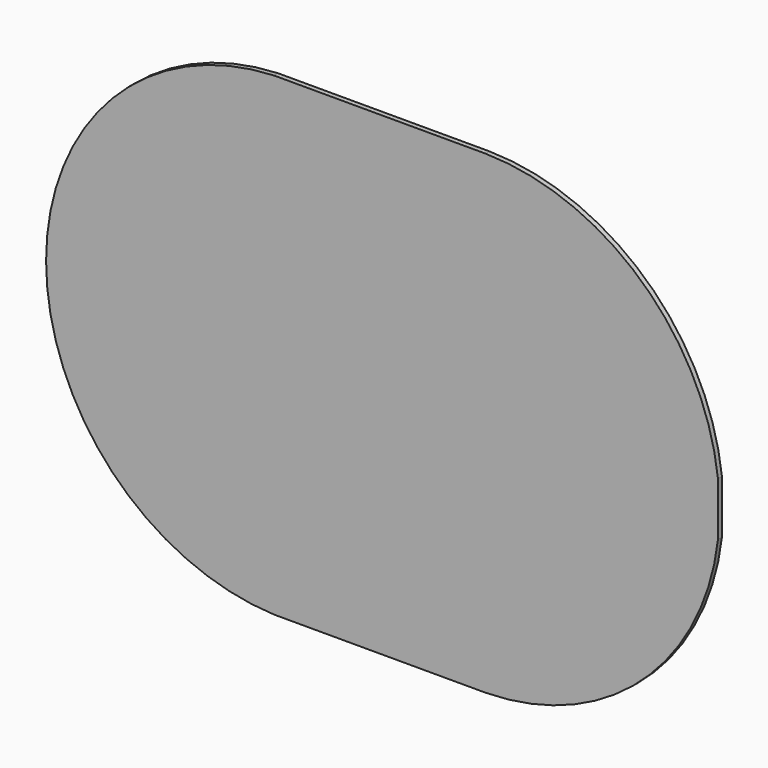
from build123d import *

# Parameters (mm, degrees)
F1_DEPTH = 4.7625


with BuildPart() as f1:
    # F0 (on Front) → F1 (new body, symmetric)
    with BuildSketch(Plane.XZ):
        with BuildLine():
            Line((-207.8299373389, -457.2), (200.1101970673, -457.2))
            ThreePointArc((200.1101970673, -457.2), (500.4213052713, -338.8144029696), (647.7, -51.5673013758))
            Line((647.7, -51.5673013758), (647.7, 51.5673013758))
            ThreePointArc((647.7, 51.5673013758), (500.4213052713, 338.8144029696), (200.1101970673, 457.2))
            Line((200.1101970673, 457.2), (-207.8299373388, 457.2))
            ThreePointArc((-207.8299373388, 457.2), (-646.8630808032, 0), (-207.8299373389, -457.2))
        make_face()
    extrude(amount=F1_DEPTH, both=True)


solid = f1.part
